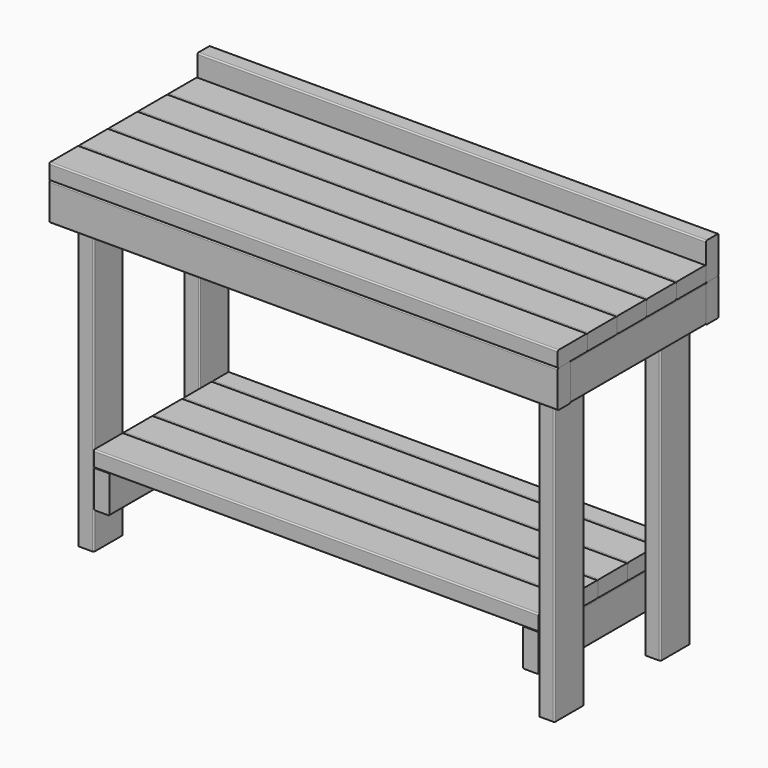
from build123d import *

# Parameters (mm, degrees)
F1_DEPTH  = 1219.2
F7_DEPTH  = 1219.2
F9_DEPTH  = 1219.2
F11_DEPTH = 1219.2
F13_DEPTH = 406.4
F15_DEPTH = 406.4
F17_DEPTH = 774.7
F19_DEPTH = 774.7
F21_DEPTH = 774.7
F23_DEPTH = 774.7
F33_DEPTH = 406.4
F35_DEPTH = 1143
F37_DEPTH = 406.4
F39_DEPTH = 1143
F43_DEPTH = 1066.8
F48_DEPTH = 1066.8


with BuildPart() as f1:
    # F0 (on Right) → F1 (new body)
    with BuildSketch(Plane.YZ):
        with BuildLine():
            ThreePointArc((0, 3.175), (0.929936, 0.929936), (3.175, 0))
            Line((3.175, 0), (85.725, 0))
            ThreePointArc((85.725, 0), (87.970064, 0.929936), (88.9, 3.175))
            Line((88.9, 3.175), (88.9, 34.925))
            ThreePointArc((88.9, 34.925), (87.970064, 37.170064), (85.725, 38.1))
            Line((85.725, 38.1), (3.175, 38.1))
            ThreePointArc((3.175, 38.1), (0.929936, 37.170064), (0, 34.925))
            Line((0, 34.925), (0, 3.175))
        make_face()
    extrude(amount=F1_DEPTH)


with BuildPart() as f2_1:
    # F2: copy of F1
    add(f1.part.moved(Location((0, 88.9, 0))))


with BuildPart() as f3_1:
    # F3: copy of F2_1
    add(f2_1.part.moved(Location((0, 88.9, 0))))


with BuildPart() as f4_1:
    # F4: copy of F3_1
    add(f3_1.part.moved(Location((0, 88.9, 0))))


with BuildPart() as f5_1:
    # F5: copy of F4_1
    add(f4_1.part.moved(Location((0, 88.9, 0))))


with BuildPart() as f7:
    # F6 (on Right) → F7 (new body)
    with BuildSketch(Plane.YZ):
        with BuildLine():
            ThreePointArc((444.5, 3.175), (445.429936, 0.929936), (447.675, 0))
            Line((447.675, 0), (479.425, 0))
            ThreePointArc((479.425, 0), (481.670064, 0.929936), (482.6, 3.175))
            Line((482.6, 3.175), (482.6, 85.725))
            ThreePointArc((482.6, 85.725), (481.670064, 87.970064), (479.425, 88.9))
            Line((479.425, 88.9), (447.675, 88.9))
            ThreePointArc((447.675, 88.9), (445.429936, 87.970064), (444.5, 85.725))
            Line((444.5, 85.725), (444.5, 3.175))
        make_face()
    extrude(amount=F7_DEPTH)


with BuildPart() as f9:
    # F8 (on face) → F9 (new body)
    with BuildSketch(Plane.YZ.offset(1219.2)):
        with BuildLine():
            Line((34.925, 0), (3.175, 0))
            ThreePointArc((3.175, 0), (0.929936, -0.929936), (0, -3.175))
            Line((0, -3.175), (0, -85.725))
            ThreePointArc((0, -85.725), (0.929936, -87.970064), (3.175, -88.9))
            Line((3.175, -88.9), (34.925, -88.9))
            ThreePointArc((34.925, -88.9), (37.170064, -87.970064), (38.1, -85.725))
            Line((38.1, -85.725), (38.1, -3.175))
            ThreePointArc((38.1, -3.175), (37.170064, -0.929936), (34.925, 0))
        make_face()
    extrude(amount=-F9_DEPTH)


with BuildPart() as f11:
    # F10 (on face) → F11 (new body)
    with BuildSketch(Plane.YZ.offset(1219.2)):
        with BuildLine():
            Line((479.425, 0), (447.675, 0))
            ThreePointArc((447.675, 0), (445.429936, -0.929936), (444.5, -3.175))
            Line((444.5, -3.175), (444.5, -85.725))
            ThreePointArc((444.5, -85.725), (445.429936, -87.970064), (447.675, -88.9))
            Line((447.675, -88.9), (479.425, -88.9))
            ThreePointArc((479.425, -88.9), (481.670064, -87.970064), (482.6, -85.725))
            Line((482.6, -85.725), (482.6, -3.175))
            ThreePointArc((482.6, -3.175), (481.670064, -0.929936), (479.425, 0))
        make_face()
    extrude(amount=-F11_DEPTH)


with BuildPart() as f13:
    # F12 (on face) → F13 (new body)
    with BuildSketch(Plane(origin=(0, 38.1, 0), x_dir=(-1, 0, 0), z_dir=(0, 1, 0))):
        with BuildLine():
            Line((-1183.71829, 0), (-1215.46829, 0))
            ThreePointArc((-1215.46829, 0), (-1217.713354, -0.929936), (-1218.64329, -3.175))
            Line((-1218.64329, -3.175), (-1218.64329, -85.725))
            ThreePointArc((-1218.64329, -85.725), (-1217.713354, -87.970064), (-1215.46829, -88.9))
            Line((-1215.46829, -88.9), (-1183.71829, -88.9))
            ThreePointArc((-1183.71829, -88.9), (-1181.473226, -87.970064), (-1180.54329, -85.725))
            Line((-1180.54329, -85.725), (-1180.54329, -3.175))
            ThreePointArc((-1180.54329, -3.175), (-1181.473226, -0.929936), (-1183.71829, 0))
        make_face()
    extrude(amount=F13_DEPTH)


with BuildPart() as f15:
    # F14 (on face) → F15 (new body)
    with BuildSketch(Plane(origin=(0, 38.1, 0), x_dir=(-1, 0, 0), z_dir=(0, 1, 0))):
        with BuildLine():
            ThreePointArc((0, -3.175), (-0.929936, -0.929936), (-3.175, 0))
            Line((-3.175, 0), (-34.925, 0))
            ThreePointArc((-34.925, 0), (-37.170064, -0.929936), (-38.1, -3.175))
            Line((-38.1, -3.175), (-38.1, -85.725))
            ThreePointArc((-38.1, -85.725), (-37.170064, -87.970064), (-34.925, -88.9))
            Line((-34.925, -88.9), (-3.175, -88.9))
            ThreePointArc((-3.175, -88.9), (-0.929936, -87.970064), (0, -85.725))
            Line((0, -85.725), (0, -3.175))
        make_face()
    extrude(amount=F15_DEPTH)


with BuildPart() as f17:
    # F16 (on face) → F17 (new body)
    with BuildSketch(Plane(origin=(0, 0, 0), x_dir=(1, 0, 0), z_dir=(0, 0, -1))):
        with BuildLine():
            ThreePointArc((1181.1, -358.871291), (1180.170064, -356.626227), (1177.925, -355.696291))
            Line((1177.925, -355.696291), (1146.175, -355.696291))
            ThreePointArc((1146.175, -355.696291), (1143.929936, -356.626227), (1143, -358.871291))
            Line((1143, -358.871291), (1143, -441.325))
            ThreePointArc((1143, -441.325), (1143.929936, -443.570064), (1146.175, -444.5))
            Line((1146.175, -444.5), (1177.925, -444.5))
            ThreePointArc((1177.925, -444.5), (1180.170064, -443.570064), (1181.1, -441.325))
            Line((1181.1, -441.325), (1181.1, -358.871291))
        make_face()
    extrude(amount=F17_DEPTH)


with BuildPart() as f19:
    # F18 (on face) → F19 (new body)
    with BuildSketch(Plane(origin=(0, 0, 0), x_dir=(1, 0, 0), z_dir=(0, 0, -1))):
        with BuildLine():
            ThreePointArc((1181.1, -41.275), (1180.170064, -39.029936), (1177.925, -38.1))
            Line((1177.925, -38.1), (1146.175, -38.1))
            ThreePointArc((1146.175, -38.1), (1143.929936, -39.029936), (1143, -41.275))
            Line((1143, -41.275), (1143, -85.725))
            Line((1143, -85.725), (1181.1, -85.725))
            Line((1181.1, -85.725), (1181.1, -41.275))
        make_face()
        with BuildLine():
            ThreePointArc((1181.1, -41.275), (1180.170064, -39.029936), (1177.925, -38.1))
            Line((1177.925, -38.1), (1146.175, -38.1))
            ThreePointArc((1146.175, -38.1), (1143.929936, -39.029936), (1143, -41.275))
            Line((1143, -41.275), (1143, -123.825))
            ThreePointArc((1143, -123.825), (1143.929936, -126.070064), (1146.175, -127))
            Line((1146.175, -127), (1177.925, -127))
            ThreePointArc((1177.925, -127), (1180.170064, -126.070064), (1181.1, -123.825))
            Line((1181.1, -123.825), (1181.1, -41.275))
        make_face()
    extrude(amount=F19_DEPTH)


with BuildPart() as f21:
    # F20 (on face) → F21 (new body)
    with BuildSketch(Plane(origin=(0, 0, 0), x_dir=(1, 0, 0), z_dir=(0, 0, -1))):
        with BuildLine():
            ThreePointArc((38.1, -441.325), (39.029936, -443.570064), (41.275, -444.5))
            Line((41.275, -444.5), (73.025, -444.5))
            ThreePointArc((73.025, -444.5), (75.270064, -443.570064), (76.2, -441.325))
            Line((76.2, -441.325), (76.2, -358.775))
            ThreePointArc((76.2, -358.775), (75.270064, -356.529936), (73.025, -355.6))
            Line((73.025, -355.6), (41.275, -355.6))
            ThreePointArc((41.275, -355.6), (39.029936, -356.529936), (38.1, -358.775))
            Line((38.1, -358.775), (38.1, -441.325))
        make_face()
    extrude(amount=F21_DEPTH)


with BuildPart() as f23:
    # F22 (on face) → F23 (new body)
    with BuildSketch(Plane(origin=(0, 0, 0), x_dir=(1, 0, 0), z_dir=(0, 0, -1))):
        with BuildLine():
            Line((73.025, -38.1), (41.275, -38.1))
            ThreePointArc((41.275, -38.1), (39.029936, -39.029936), (38.1, -41.275))
            Line((38.1, -41.275), (38.1, -123.825))
            ThreePointArc((38.1, -123.825), (39.029936, -126.070064), (41.275, -127))
            Line((41.275, -127), (73.025, -127))
            ThreePointArc((73.025, -127), (75.270064, -126.070064), (76.2, -123.825))
            Line((76.2, -123.825), (76.2, -41.275))
            ThreePointArc((76.2, -41.275), (75.270064, -39.029936), (73.025, -38.1))
        make_face()
    extrude(amount=F23_DEPTH)


with BuildPart() as f24_1:
    # F24: copy of F9
    add(f9.part.moved(Location((0, 0, -558.8))))


with BuildPart() as f25_1:
    # F25: copy of F13
    add(f13.part.moved(Location((0, 0, -558.8))))


with BuildPart() as f26_1:
    # F26: copy of F11
    add(f11.part.moved(Location((0, 0, -558.8))))


with BuildPart() as f27_1:
    # F27: copy of F15
    add(f15.part.moved(Location((0, 0, -558.8))))


with BuildPart() as f33:
    # F32 (on face) → F33 (new body)
    with BuildSketch(Plane.XZ.offset(-38.1)):
        with BuildLine():
            ThreePointArc((76.2, -682.625), (77.129936, -684.870064), (79.375, -685.8))
            Line((79.375, -685.8), (111.125, -685.8))
            ThreePointArc((111.125, -685.8), (113.370064, -684.870064), (114.3, -682.625))
            Line((114.3, -682.625), (114.3, -600.075))
            ThreePointArc((114.3, -600.075), (113.370064, -597.829936), (111.125, -596.9))
            Line((111.125, -596.9), (79.375, -596.9))
            ThreePointArc((79.375, -596.9), (77.129936, -597.829936), (76.2, -600.075))
            Line((76.2, -600.075), (76.2, -682.625))
        make_face()
    extrude(amount=-F33_DEPTH)


with BuildPart() as f35:
    # F34 (on face) → F35 (new body)
    with BuildSketch(Plane(origin=(38.1, 0, 0), x_dir=(0, -1, 0), z_dir=(-1, 0, 0))):
        with BuildLine():
            ThreePointArc((-38.1, -682.625), (-37.170064, -684.870064), (-34.925, -685.8))
            Line((-34.925, -685.8), (-3.175, -685.8))
            ThreePointArc((-3.175, -685.8), (-0.929936, -684.870064), (0, -682.625))
            Line((0, -682.625), (0, -600.075))
            ThreePointArc((0, -600.075), (-0.929936, -597.829936), (-3.175, -596.9))
            Line((-3.175, -596.9), (-34.925, -596.9))
            ThreePointArc((-34.925, -596.9), (-37.170064, -597.829936), (-38.1, -600.075))
            Line((-38.1, -600.075), (-38.1, -682.625))
        make_face()
    extrude(amount=-F35_DEPTH)


with BuildPart() as f37:
    # F36 (on face) → F37 (new body)
    with BuildSketch(Plane(origin=(0, 38.1, 0), x_dir=(-1, 0, 0), z_dir=(0, 1, 0))):
        with BuildLine():
            ThreePointArc((-1143, -682.625), (-1142.070064, -684.870064), (-1139.825, -685.8))
            Line((-1139.825, -685.8), (-1108.075, -685.8))
            ThreePointArc((-1108.075, -685.8), (-1105.829936, -684.870064), (-1104.9, -682.625))
            Line((-1104.9, -682.625), (-1104.9, -600.075))
            ThreePointArc((-1104.9, -600.075), (-1105.829936, -597.829936), (-1108.075, -596.9))
            Line((-1108.075, -596.9), (-1139.825, -596.9))
            ThreePointArc((-1139.825, -596.9), (-1142.070064, -597.829936), (-1143, -600.075))
            Line((-1143, -600.075), (-1143, -682.625))
        make_face()
    extrude(amount=F37_DEPTH)


with BuildPart() as f39:
    # F38 (on face) → F39 (new body)
    with BuildSketch(Plane(origin=(38.1, 0, 0), x_dir=(0, -1, 0), z_dir=(-1, 0, 0))):
        with BuildLine():
            Line((-479.425, -685.8), (-447.675, -685.8))
            ThreePointArc((-447.675, -685.8), (-445.429936, -684.870064), (-444.5, -682.625))
            Line((-444.5, -682.625), (-444.5, -600.075))
            ThreePointArc((-444.5, -600.075), (-445.429936, -597.829936), (-447.675, -596.9))
            Line((-447.675, -596.9), (-479.425, -596.9))
            ThreePointArc((-479.425, -596.9), (-481.670064, -597.829936), (-482.6, -600.075))
            Line((-482.6, -600.075), (-482.6, -682.625))
            ThreePointArc((-482.6, -682.625), (-481.670064, -684.870064), (-479.425, -685.8))
        make_face()
    extrude(amount=-F39_DEPTH)


with BuildPart() as f43:
    # F42 (on face) → F43 (new body)
    with BuildSketch(Plane.YZ.offset(76.2)):
        with BuildLine():
            ThreePointArc((38.1, -593.725), (39.029936, -595.970064), (41.275, -596.9))
            Line((41.275, -596.9), (123.825, -596.9))
            ThreePointArc((123.825, -596.9), (126.070064, -595.970064), (127, -593.725))
            Line((127, -593.725), (127, -561.975))
            ThreePointArc((127, -561.975), (126.070064, -559.729936), (123.825, -558.8))
            Line((123.825, -558.8), (41.275, -558.8))
            ThreePointArc((41.275, -558.8), (39.029936, -559.729936), (38.1, -561.975))
            Line((38.1, -561.975), (38.1, -593.725))
        make_face()
    extrude(amount=F43_DEPTH)


with BuildPart() as f44_1:
    # F44: copy of F43
    add(f43.part.moved(Location((0, 88.9, 0))))


with BuildPart() as f45_1:
    # F45: copy of F44_1
    add(f44_1.part.moved(Location((0, 88.9, 0))))


with BuildPart() as f46_1:
    # F46: copy of F45_1
    add(f45_1.part.moved(Location((0, 88.9, 0))))


with BuildPart() as f48:
    # F47 (on face) → F48 (new body)
    with BuildSketch(Plane.YZ.offset(76.2)):
        with BuildLine():
            ThreePointArc((393.7, -593.725), (394.629936, -595.970064), (396.875, -596.9))
            Line((396.875, -596.9), (441.325, -596.9))
            ThreePointArc((441.325, -596.9), (443.570064, -595.970064), (444.5, -593.725))
            Line((444.5, -593.725), (444.5, -561.975))
            ThreePointArc((444.5, -561.975), (443.570064, -559.729936), (441.325, -558.8))
            Line((441.325, -558.8), (396.875, -558.8))
            ThreePointArc((396.875, -558.8), (394.629936, -559.729936), (393.7, -561.975))
            Line((393.7, -561.975), (393.7, -593.725))
        make_face()
    extrude(amount=F48_DEPTH)


solid = Compound([f1.part, f2_1.part, f3_1.part, f4_1.part, f5_1.part, f7.part, f9.part, f11.part, f13.part, f15.part, f17.part, f19.part, f21.part, f23.part, f33.part, f37.part, f43.part, f44_1.part, f45_1.part, f46_1.part, f48.part])
